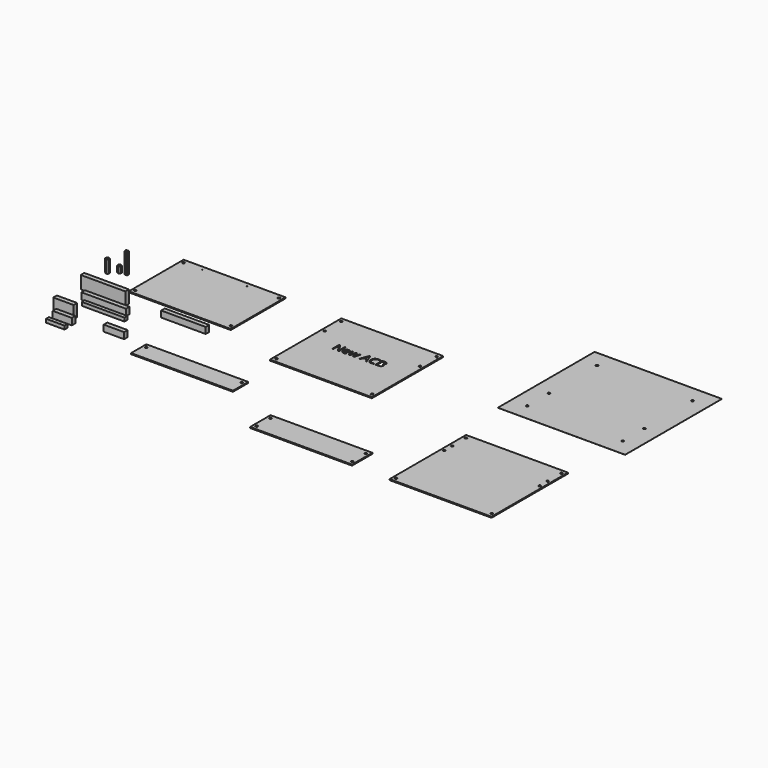
from build123d import *

# Parameters (mm, degrees)
F0_W      = 160
F0_H      = 107.5
F0_R      = 0.5
F1_DEPTH  = 1.6
F2_D      = 3.5
F3_W      = 70
F3_H      = 7
F4_DEPTH  = 20
F5_W      = 70
F5_H      = 7
F6_DEPTH  = 10.4
F7_W      = 67
F7_H      = 5.7
F8_DEPTH  = 5.5
F9_W      = 70
F9_H      = 7
F10_DEPTH = 9.8
F11_W     = 32
F11_H     = 7
F12_DEPTH = 20
F13_W     = 30
F13_H     = 7
F14_DEPTH = 10.4
F15_W     = 29
F15_H     = 5.7
F16_DEPTH = 5.5
F17_W     = 32
F17_H     = 7
F18_DEPTH = 9.8
F20_DEPTH = 20
F21_W     = 160
F21_H     = 30
F21_R     = 1.75
F22_DEPTH = 1.6
F23_W     = 160
F23_H     = 140
F23_R     = 1.75
F24_DEPTH = 1.6
F26_DEPTH = 10
F28_DEPTH = 32
F29_W     = 160
F29_H     = 40
F29_R     = 1.75
F31_DEPTH = 1.6
F30_W     = 160
F30_H     = 150
F30_R     = 1.75
F32_DEPTH = 1.6
F33_W     = 200
F33_H     = 190
F34_DEPTH = 0.1
F36_D     = 3.5


with BuildPart() as f1:
    # F0 (on Top) → F1 (new body)
    with BuildSketch(Plane.XY):
        with Locations((80, 53.75)):
            Rectangle(F0_W, F0_H)
        with Locations((34.275, 101)):
            Circle(F0_R, mode=Mode.SUBTRACT)
        with Locations((104.775, 101)):
            Circle(F0_R, mode=Mode.SUBTRACT)
    extrude(amount=F1_DEPTH)

    # F2 (through all)
    with Locations(Plane(origin=(0, 0, 0), x_dir=(1, 0, 0), z_dir=(0, 0, -1))):
        with Locations((5, -101), (155, -101), (155, -6.5), (5, -6.5)):
            Hole(F2_D / 2)


with BuildPart() as f4:
    # F3 (on Top) → F4 (new body)
    with BuildSketch(Plane.XY):
        with Locations((-16.0939775687, -27.1400371566)):
            Rectangle(F3_W, F3_H)
    extrude(amount=F4_DEPTH)


with BuildPart() as f6:
    # F5 (on Top) → F6 (new body)
    with BuildSketch(Plane.XY):
        with Locations((1.7421445296, -48.1625366956)):
            Rectangle(F5_W, F5_H)
    extrude(amount=F6_DEPTH)


with BuildPart() as f8:
    # F7 (on Top) → F8 (new body)
    with BuildSketch(Plane.XY):
        with Locations((10.7092835508, -61.0287673771)):
            Rectangle(F7_W, F7_H)
    extrude(amount=F8_DEPTH)


with BuildPart() as f10:
    # F9 (on Top) → F10 (new body)
    with BuildSketch(Plane.XY):
        with Locations((107.5625554097, -23.9234799519)):
            Rectangle(F9_W, F9_H)
    extrude(amount=F10_DEPTH)


with BuildPart() as f12:
    # F11 (on Top) → F12 (new body)
    with BuildSketch(Plane.XY):
        with Locations((-23.9963108364, -94.9174948037)):
            Rectangle(F11_W, F11_H)
    extrude(amount=F12_DEPTH)


with BuildPart() as f14:
    # F13 (on Top) → F14 (new body)
    with BuildSketch(Plane.XY):
        with Locations((-15, -108.6432483196)):
            Rectangle(F13_W, F13_H)
    extrude(amount=F14_DEPTH)


with BuildPart() as f16:
    # F15 (on Top) → F16 (new body)
    with BuildSketch(Plane.XY):
        with Locations((-14.5, -123.4859487057)):
            Rectangle(F15_W, F15_H)
    extrude(amount=F16_DEPTH)


with BuildPart() as f18:
    # F17 (on Top) → F18 (new body)
    with BuildSketch(Plane.XY):
        with Locations((57.0341287478, -97.2132757306)):
            Rectangle(F17_W, F17_H)
    extrude(amount=F18_DEPTH)


with BuildPart() as f20:
    # F19 (on Top) → F20 (new body)
    with BuildSketch(Plane.XY):
        Polygon((-50.3638529029, 25.6252197895), (-52.815556545, 27.149189141), (-55.3612045391, 25.7879361801), (-55.455148891, 22.9027138677), (-53.0034452489, 21.3787445162), (-50.4577972548, 22.7399974771), align=None)
    extrude(amount=F20_DEPTH)


with BuildPart() as f22:
    # F21 (on Top) → F22 (new body)
    with BuildSketch(Plane.XY):
        with Locations((184.6012100577, -111.4463090748)):
            Rectangle(F21_W, F21_H)
        with Locations((109.6012100577, -102.9463090748)):
            Circle(F21_R, mode=Mode.SUBTRACT)
        with Locations((259.6012100577, -102.9463090748)):
            Circle(F21_R, mode=Mode.SUBTRACT)
    extrude(amount=F22_DEPTH)


with BuildPart() as f24:
    # F23 (on Top) → F24 (new body)
    with BuildSketch(Plane.XY):
        with Locations((328.4113079536, 36.5902520716)):
            Rectangle(F23_W, F23_H)
        with Locations((253.4113079536, -26.9097479284)):
            Circle(F23_R, mode=Mode.SUBTRACT)
        with Locations((403.4113079536, -26.9097479284)):
            Circle(F23_R, mode=Mode.SUBTRACT)
        with Locations((253.4113079536, 67.5902520716)):
            Circle(F23_R, mode=Mode.SUBTRACT)
        with BuildLine():
            Line((300.6859295811, 49.9915973276), (300.6859295811, 36.6290178146))
            Line((300.6859295811, 36.6290178146), (298.9136110902, 36.6290178146))
            Line((298.9136110902, 36.6290178146), (291.6108400147, 47.8420031183))
            Line((291.6108400147, 47.8420031183), (291.5377245654, 47.8420031183))
            add(Edge.make_bspline(
                [(291.5377245654, 47.8420031183), (291.683955464, 45.8678859874), (291.683955464, 44.2242506873)],
                knots=[0, 0, 0, 1, 1, 1], degree=2))
            Line((291.683955464, 44.2242506873), (291.683955464, 36.6290178146))
            Line((291.683955464, 36.6290178146), (290.2479680399, 36.6290178146))
            Line((290.2479680399, 36.6290178146), (290.2479680399, 49.9915973276))
            Line((290.2479680399, 49.9915973276), (292.0027388229, 49.9915973276))
            Line((292.0027388229, 49.9915973276), (299.2879621906, 38.8224812934))
            Line((299.2879621906, 38.8224812934), (299.3610776399, 38.8224812934))
            add(Edge.make_bspline(
                [(299.3610776399, 38.8224812934), (299.3435299321, 39.068149203), (299.2791883367, 40.4076242341)],
                knots=[0, 0, 0, 1, 1, 1], degree=2))
            add(Edge.make_bspline(
                [(299.2791883367, 40.4076242341), (299.2148467413, 41.7470992652), (299.2323944492, 42.3232490056)],
                knots=[0, 0, 0, 1, 1, 1], degree=2))
            Line((299.2323944492, 42.3232490056), (299.2323944492, 49.9915973276))
            Line((299.2323944492, 49.9915973276), (300.6859295811, 49.9915973276))
        make_face(mode=Mode.SUBTRACT)
        with BuildLine():
            add(Edge.make_bspline(
                [(310.0944255963, 36.5968470169), (309.3778941933, 36.4447668823), (308.363051757, 36.4447668823)],
                knots=[0, 0, 0, 1, 1, 1], degree=2))
            add(Edge.make_bspline(
                [(308.363051757, 36.4447668823), (306.1432667165, 36.4447668823), (304.8578971179, 37.7988650033)],
                knots=[0, 0, 0, 1, 1, 1], degree=2))
            add(Edge.make_bspline(
                [(304.8578971179, 37.7988650033), (303.5725275193, 39.1529631242), (303.5725275193, 41.554074479)],
                knots=[0, 0, 0, 1, 1, 1], degree=2))
            add(Edge.make_bspline(
                [(303.5725275193, 41.554074479), (303.5725275193, 43.9785827776), (304.7657716518, 45.4043340389)],
                knots=[0, 0, 0, 1, 1, 1], degree=2))
            add(Edge.make_bspline(
                [(304.7657716518, 45.4043340389), (305.9590157842, 46.8300853001), (307.9711529488, 46.8300853001)],
                knots=[0, 0, 0, 1, 1, 1], degree=2))
            add(Edge.make_bspline(
                [(307.9711529488, 46.8300853001), (309.8516823047, 46.8300853001), (310.9484140441, 45.5915095891)],
                knots=[0, 0, 0, 1, 1, 1], degree=2))
            add(Edge.make_bspline(
                [(310.9484140441, 45.5915095891), (312.0451457835, 44.352933878), (312.0451457835, 42.3232490056)],
                knots=[0, 0, 0, 1, 1, 1], degree=2))
            Line((312.0451457835, 42.3232490056), (312.0451457835, 41.3639743109))
            Line((312.0451457835, 41.3639743109), (305.1459719881, 41.3639743109))
            add(Edge.make_bspline(
                [(305.1459719881, 41.3639743109), (305.1927658756, 39.6004296739), (306.0379804695, 38.6864865577)],
                knots=[0, 0, 0, 1, 1, 1], degree=2))
            add(Edge.make_bspline(
                [(306.0379804695, 38.6864865577), (306.8831950633, 37.7725434415), (308.4186194985, 37.7725434415)],
                knots=[0, 0, 0, 1, 1, 1], degree=2))
            add(Edge.make_bspline(
                [(308.4186194985, 37.7725434415), (310.0359332369, 37.7725434415), (311.6152269417, 38.448130193)],
                knots=[0, 0, 0, 1, 1, 1], degree=2))
            Line((311.6152269417, 38.448130193), (311.6152269417, 37.0940320721))
            add(Edge.make_bspline(
                [(311.6152269417, 37.0940320721), (310.8109569994, 36.7489271514), (310.0944255963, 36.5968470169)],
                knots=[0, 0, 0, 1, 1, 1], degree=2))
        make_face(mode=Mode.SUBTRACT)
        with BuildLine():
            Line((324.6151538262, 36.6290178146), (322.8135891556, 36.6290178146))
            Line((322.8135891556, 36.6290178146), (320.9769290693, 42.5045753199))
            add(Edge.make_bspline(
                [(320.9769290693, 42.5045753199), (320.801451991, 43.0456296446), (320.3276638796, 44.9554051802)],
                knots=[0, 0, 0, 1, 1, 1], degree=2))
            Line((320.3276638796, 44.9554051802), (320.2545484303, 44.9554051802))
            add(Edge.make_bspline(
                [(320.2545484303, 44.9554051802), (319.8889711838, 43.3556391496), (319.6140570945, 42.487027612)],
                knots=[0, 0, 0, 1, 1, 1], degree=2))
            Line((319.6140570945, 42.487027612), (317.7218292667, 36.6290178146))
            Line((317.7218292667, 36.6290178146), (315.9670584837, 36.6290178146))
            Line((315.9670584837, 36.6290178146), (313.235465298, 46.6458343679))
            Line((313.235465298, 46.6458343679), (314.8264574747, 46.6458343679))
            add(Edge.make_bspline(
                [(314.8264574747, 46.6458343679), (315.7945060233, 42.8701525663), (316.3019272414, 40.8960354354)],
                knots=[0, 0, 0, 1, 1, 1], degree=2))
            add(Edge.make_bspline(
                [(316.3019272414, 40.8960354354), (316.8093484595, 38.9219183044), (316.8824639088, 38.237557699)],
                knots=[0, 0, 0, 1, 1, 1], degree=2))
            Line((316.8824639088, 38.237557699), (316.9555793581, 38.237557699))
            add(Edge.make_bspline(
                [(316.9555793581, 38.237557699), (317.0550163692, 38.758139698), (317.278749644, 39.585806584)],
                knots=[0, 0, 0, 1, 1, 1], degree=2))
            add(Edge.make_bspline(
                [(317.278749644, 39.585806584), (317.5024829188, 40.41347347), (317.6691861432, 40.8960354354)],
                knots=[0, 0, 0, 1, 1, 1], degree=2))
            Line((317.6691861432, 40.8960354354), (319.5058462295, 46.6458343679))
            Line((319.5058462295, 46.6458343679), (321.1494815297, 46.6458343679))
            Line((321.1494815297, 46.6458343679), (322.9422723464, 40.8960354354))
            add(Edge.make_bspline(
                [(322.9422723464, 40.8960354354), (323.4540804914, 39.3255155845), (323.6354068057, 38.2551054069)],
                knots=[0, 0, 0, 1, 1, 1], degree=2))
            Line((323.6354068057, 38.2551054069), (323.708522255, 38.2551054069))
            add(Edge.make_bspline(
                [(323.708522255, 38.2551054069), (323.7465422886, 38.5855872377), (323.9059339681, 39.2714101521)],
                knots=[0, 0, 0, 1, 1, 1], degree=2))
            add(Edge.make_bspline(
                [(323.9059339681, 39.2714101521), (324.0653256475, 39.9572330664), (325.8113225767, 46.6458343679)],
                knots=[0, 0, 0, 1, 1, 1], degree=2))
            Line((325.8113225767, 46.6458343679), (327.3818424275, 46.6458343679))
            Line((327.3818424275, 46.6458343679), (324.6151538262, 36.6290178146))
        make_face(mode=Mode.SUBTRACT)
        with Locations((253.4113079536, 100.0902520716)):
            Circle(F23_R, mode=Mode.SUBTRACT)
        Polygon((344.2919835403, 36.6290178146), (342.6834436559, 36.6290178146), (341.0193360299, 40.8784877275), (335.6643605236, 40.8784877275), (334.0207252234, 36.6290178146), (332.4472807546, 36.6290178146), (337.7291408117, 50.0471650691), (339.036445045, 50.0471650691), align=None, mode=Mode.SUBTRACT)
        with BuildLine():
            add(Edge.make_bspline(
                [(354.8849498341, 48.081821792), (353.3670731068, 48.7925039592), (351.8491963794, 48.7925039592)],
                knots=[0, 0, 0, 1, 1, 1], degree=2))
            add(Edge.make_bspline(
                [(351.8491963794, 48.7925039592), (349.6469590467, 48.7925039592), (348.371825611, 47.3258080463)],
                knots=[0, 0, 0, 1, 1, 1], degree=2))
            add(Edge.make_bspline(
                [(348.371825611, 47.3258080463), (347.0966921753, 45.8591121335), (347.0966921753, 43.3088452621)],
                knots=[0, 0, 0, 1, 1, 1], degree=2))
            add(Edge.make_bspline(
                [(347.0966921753, 43.3088452621), (347.0966921753, 40.6883875594), (348.3264940324, 39.2567870622)],
                knots=[0, 0, 0, 1, 1, 1], degree=2))
            add(Edge.make_bspline(
                [(348.3264940324, 39.2567870622), (349.5562958895, 37.825186565), (351.8316486716, 37.825186565)],
                knots=[0, 0, 0, 1, 1, 1], degree=2))
            add(Edge.make_bspline(
                [(351.8316486716, 37.825186565), (353.2296160621, 37.825186565), (355.0224068788, 38.3282208562)],
                knots=[0, 0, 0, 1, 1, 1], degree=2))
            Line((355.0224068788, 38.3282208562), (355.0224068788, 36.9682734993))
            add(Edge.make_bspline(
                [(355.0224068788, 36.9682734993), (353.6332133422, 36.4447668823), (351.5947546159, 36.4447668823)],
                knots=[0, 0, 0, 1, 1, 1], degree=2))
            add(Edge.make_bspline(
                [(351.5947546159, 36.4447668823), (348.6438150823, 36.4447668823), (347.0396621248, 38.237557699)],
                knots=[0, 0, 0, 1, 1, 1], degree=2))
            add(Edge.make_bspline(
                [(347.0396621248, 38.237557699), (345.4355091673, 40.0303485157), (345.4355091673, 43.3293175879)],
                knots=[0, 0, 0, 1, 1, 1], degree=2))
            add(Edge.make_bspline(
                [(345.4355091673, 43.3293175879), (345.4355091673, 45.394097876), (346.2076083118, 46.947070019)],
                knots=[0, 0, 0, 1, 1, 1], degree=2))
            add(Edge.make_bspline(
                [(346.2076083118, 46.947070019), (346.9797074564, 48.500042162), (348.4376295153, 49.3408698289)],
                knots=[0, 0, 0, 1, 1, 1], degree=2))
            add(Edge.make_bspline(
                [(348.4376295153, 49.3408698289), (349.8955515743, 50.1816974958), (351.8696687052, 50.1816974958)],
                knots=[0, 0, 0, 1, 1, 1], degree=2))
            add(Edge.make_bspline(
                [(351.8696687052, 50.1816974958), (353.9695444089, 50.1816974958), (355.5429888778, 49.4154475872)],
                knots=[0, 0, 0, 1, 1, 1], degree=2))
            Line((355.5429888778, 49.4154475872), (354.8849498341, 48.081821792))
        make_face(mode=Mode.SUBTRACT)
        with BuildLine():
            Line((357.9382509966, 36.6290178146), (357.9382509966, 49.9915973276))
            Line((357.9382509966, 49.9915973276), (361.7139327982, 49.9915973276))
            add(Edge.make_bspline(
                [(361.7139327982, 49.9915973276), (364.3724105346, 49.9915973276), (365.5612677401, 49.1961012393)],
                knots=[0, 0, 0, 1, 1, 1], degree=2))
            add(Edge.make_bspline(
                [(365.5612677401, 49.1961012393), (366.7501249456, 48.400605151), (366.7501249456, 46.6838544015)],
                knots=[0, 0, 0, 1, 1, 1], degree=2))
            add(Edge.make_bspline(
                [(366.7501249456, 46.6838544015), (366.7501249456, 45.493534887), (366.087698975, 44.7214357425)],
                knots=[0, 0, 0, 1, 1, 1], degree=2))
            add(Edge.make_bspline(
                [(366.087698975, 44.7214357425), (365.4252730044, 43.9493365979), (364.1530641867, 43.7212163961)],
                knots=[0, 0, 0, 1, 1, 1], degree=2))
            Line((364.1530641867, 43.7212163961), (364.1530641867, 43.630553239))
            add(Edge.make_bspline(
                [(364.1530641867, 43.630553239), (367.1975914953, 43.10997124), (367.1975914953, 40.4310211779)],
                knots=[0, 0, 0, 1, 1, 1], degree=2))
            add(Edge.make_bspline(
                [(367.1975914953, 40.4310211779), (367.1975914953, 38.6411549791), (365.986799655, 37.6350863968)],
                knots=[0, 0, 0, 1, 1, 1], degree=2))
            add(Edge.make_bspline(
                [(365.986799655, 37.6350863968), (364.7760078147, 36.6290178146), (362.6000920437, 36.6290178146)],
                knots=[0, 0, 0, 1, 1, 1], degree=2))
            Line((362.6000920437, 36.6290178146), (357.9382509966, 36.6290178146))
        make_face(mode=Mode.SUBTRACT)
        with Locations((403.4113079536, 67.5902520716)):
            Circle(F23_R, mode=Mode.SUBTRACT)
        with Locations((403.4113079536, 100.0902520716)):
            Circle(F23_R, mode=Mode.SUBTRACT)
    extrude(amount=F24_DEPTH)


with BuildPart() as f26:
    # F25 (on Top) → F26 (new body)
    with BuildSketch(Plane.XY):
        Polygon((-41.7578315576, 30.9134710241), (-39.2462941976, 32.3366763581), (-39.2230574918, 35.2233341814), (-41.7113581459, 36.6867866707), (-44.2228955058, 35.2635813366), (-44.2461322117, 32.3769235133), align=None)
    extrude(amount=F26_DEPTH)


with BuildPart() as f28:
    # F27 (on Top) → F28 (new body)
    with BuildSketch(Plane.XY):
        Polygon((-32.1216009738, 33.0177766992), (-29.6297925152, 34.4752484618), (-29.6460958575, 37.3619537696), (-32.1542076586, 38.7911873149), (-34.6460161172, 37.3337155523), (-34.6297127748, 34.4470102444), align=None)
    extrude(amount=F28_DEPTH)


with BuildPart() as f31:
    # F29 (on Top) → F31 (new body)
    with BuildSketch(Plane.XY):
        with Locations((421.1595952511, -168.3685094437)):
            Rectangle(F29_W, F29_H)
        with Locations((346.1595952511, -181.8685094437)):
            Circle(F29_R, mode=Mode.SUBTRACT)
        with Locations((496.1595952511, -181.8685094437)):
            Circle(F29_R, mode=Mode.SUBTRACT)
        with Locations((346.1595952511, -154.8685094437)):
            Circle(F29_R, mode=Mode.SUBTRACT)
        with Locations((496.1595952511, -154.8685094437)):
            Circle(F29_R, mode=Mode.SUBTRACT)
    extrude(amount=F31_DEPTH)


with BuildPart() as f32:
    # F30 (on Top) → F32 (new body)
    with BuildSketch(Plane.XY):
        with Locations((641.2979960442, -114.6227126732)):
            Rectangle(F30_W, F30_H)
        with Locations((566.2979960442, -183.1227126732)):
            Circle(F30_R, mode=Mode.SUBTRACT)
        with Locations((716.2979960442, -183.1227126732)):
            Circle(F30_R, mode=Mode.SUBTRACT)
        with Locations((566.2979960442, -88.6227126732)):
            Circle(F30_R, mode=Mode.SUBTRACT)
        with Locations((566.2979960442, -73.1227126732)):
            Circle(F30_R, mode=Mode.SUBTRACT)
        with Locations((566.2979960442, -46.1227126732)):
            Circle(F30_R, mode=Mode.SUBTRACT)
        with Locations((716.2979960442, -88.6227126732)):
            Circle(F30_R, mode=Mode.SUBTRACT)
        with Locations((716.2979960442, -73.1227126732)):
            Circle(F30_R, mode=Mode.SUBTRACT)
        with Locations((716.2979960442, -46.1227126732)):
            Circle(F30_R, mode=Mode.SUBTRACT)
    extrude(amount=F32_DEPTH)


with BuildPart() as f34:
    # F33 (on Top) → F34 (new body)
    with BuildSketch(Plane.XY):
        with Locations((644.7403526306, 138.4329837396)):
            Rectangle(F33_W, F33_H)
    extrude(amount=F34_DEPTH)

    # F36 (through all)
    with Locations(Plane.XY.offset(0.1)):
        with Locations((719.7403526306, 206.9329837396), (569.7403526306, 206.9329837396), (569.7403526306, 112.4329837396), (719.7403526306, 112.4329837396), (719.7403526306, 69.9329837396), (569.7403526306, 69.9329837396)):
            Hole(F36_D / 2)


solid = Compound([f1.part, f4.part, f6.part, f8.part, f10.part, f12.part, f14.part, f16.part, f18.part, f20.part, f22.part, f24.part, f26.part, f28.part, f31.part, f32.part, f34.part])
